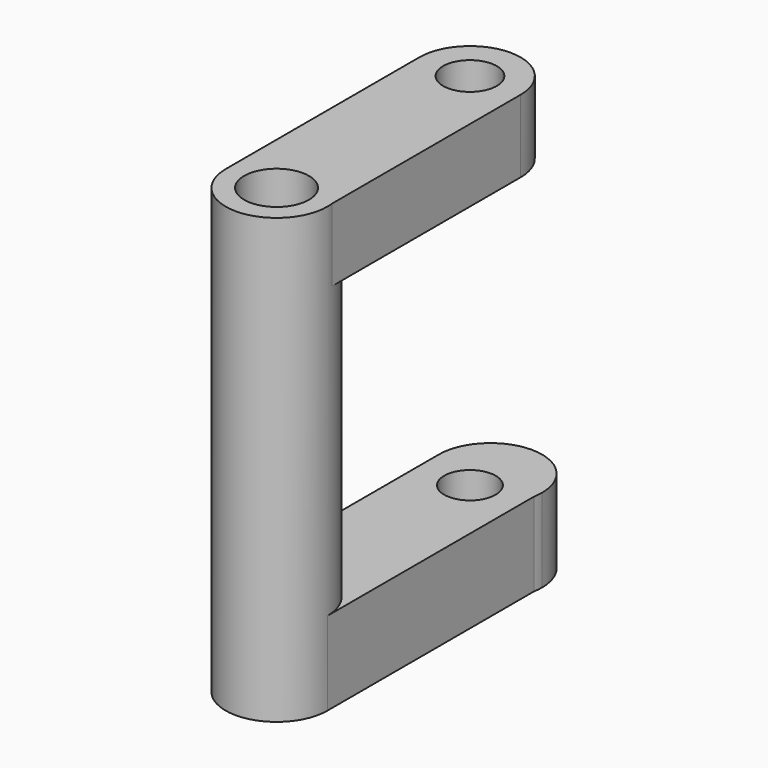
from build123d import *

# Parameters (mm, degrees)
F0_R     = 47.9922028916
F0_R_2   = 30.5721704199
F1_DEPTH = 418.592
F3_DEPTH = 68.58
F5_DEPTH = 78.74
F6_R     = 30.5721704199
F6_R_2   = 24.281009231
F7_DEPTH = 495.3


with BuildPart() as f1:
    # F0 (on Top) → F1 (new body)
    with BuildSketch(Plane.XY):
        Circle(F0_R)
        Circle(F0_R_2, mode=Mode.SUBTRACT)
    extrude(amount=-F1_DEPTH)

    # F2 (on face) → F3 (join)
    with BuildSketch(Plane.XY):
        with BuildLine():
            Line((-47.9922028916, 228.3145189285), (-47.9922028916, 0))
            Line((-47.9922028916, 0), (47.6234853268, 0))
            Line((47.6234853268, 0), (47.6234853268, 228.3145189285))
            ThreePointArc((47.6234853268, 228.3145189285), (-0.1843587824, 180.5066748193), (-47.9922028916, 228.3145189285))
        make_face()
        with BuildLine():
            ThreePointArc((47.6234853268, 228.3145189285), (-0.1843587824, 276.1223630377), (-47.9922028916, 228.3145189285))
            Line((-47.9922028916, 228.3145189285), (-25.5504139221, 228.3145189285))
            ThreePointArc((-25.5504139221, 228.3145189285), (-0.1843587824, 253.6805740682), (25.1816963573, 228.3145189285))
            Line((25.1816963573, 228.3145189285), (47.6234853268, 228.3145189285))
        make_face()
        with BuildLine():
            Line((-25.5504139221, 228.3145189285), (-47.9922028916, 228.3145189285))
            ThreePointArc((-47.9922028916, 228.3145189285), (-0.1843587824, 180.5066748193), (47.6234853268, 228.3145189285))
            Line((47.6234853268, 228.3145189285), (25.1816963573, 228.3145189285))
            ThreePointArc((25.1816963573, 228.3145189285), (-0.1843587824, 202.9484637888), (-25.5504139221, 228.3145189285))
        make_face()
    extrude(amount=-F3_DEPTH)

    # F4 (on face) → F5 (join)
    with BuildSketch(Plane(origin=(0, 0, -418.592), x_dir=(1, 0, 0), z_dir=(0, 0, -1))):
        with BuildLine():
            Line((47.9922028916, -243.720613562), (47.9922028916, 0))
            Line((47.9922028916, 0), (-48.7415492535, 0))
            Line((-48.7415492535, 0), (-48.7415492535, -252.2345483303))
            ThreePointArc((-48.7415492535, -252.2345483303), (-4.2734238383, -203.6806970688), (47.9922028916, -243.720613562))
        make_face()
        with BuildLine():
            ThreePointArc((48.7415492535, -252.2345483303), (48.5538512615, -247.961124492), (47.9922028916, -243.720613562))
            Line((47.9922028916, -243.720613562), (47.9922028916, -252.2345483303))
            Line((47.9922028916, -252.2345483303), (-48.7415492535, -252.2345483303))
            ThreePointArc((-48.7415492535, -252.2345483303), (0, -300.9760975838), (48.7415492535, -252.2345483303))
        make_face()
        with BuildLine():
            Line((47.9922028916, -252.2345483303), (47.9922028916, -243.720613562))
            ThreePointArc((47.9922028916, -243.720613562), (-4.2734238383, -203.6806970688), (-48.7415492535, -252.2345483303))
            Line((-48.7415492535, -252.2345483303), (47.9922028916, -252.2345483303))
        make_face()
    extrude(amount=-F5_DEPTH)

    # F6 (on face) → F7 (cut)
    with BuildSketch(Plane.XY):
        Circle(F6_R)
        with Locations((-0.1843587824, 228.3145189285)):
            Circle(F6_R_2)
    extrude(amount=-F7_DEPTH, mode=Mode.SUBTRACT)


solid = f1.part
